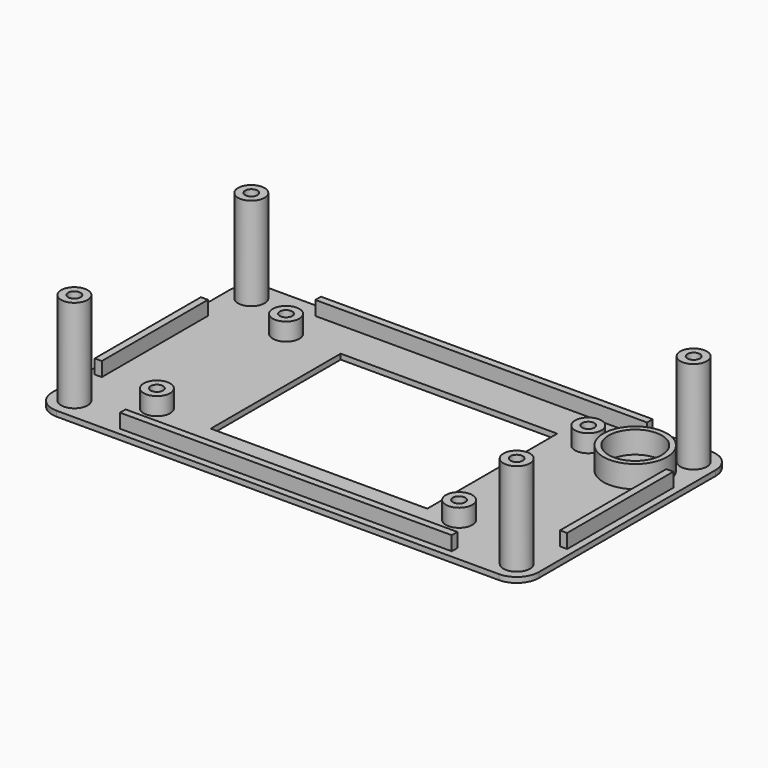
from build123d import *

# Parameters (mm, degrees)
F0_W      = 110
F0_H      = 60
F0_W_2    = 48.96
F0_H_2    = 36.72
F1_DEPTH  = 1.2
F2_R      = 7.2
F2_R_2    = 6
F3_DEPTH  = 5
F4_DEPTH  = 5
F5_R      = 1.5
F6_DEPTH  = 25
F7_R      = 5
F8_R      = 3
F8_R_2    = 1.4
F9_DEPTH  = 21
F10_R     = 3
F10_R_2   = 1.4
F11_DEPTH = 4
F12_W     = 75
F12_H     = 1.6
F12_W_2   = 1.6
F12_H_2   = 30
F13_DEPTH = 3.2


with BuildPart() as f1:
    # F0 (on Top) → F1 (new body)
    with BuildSketch(Plane.XY):
        with Locations((2.58, 0)):
            Rectangle(F0_W, F0_H)
        with Locations((2.58, 0)):
            Rectangle(F0_W_2, F0_H_2, mode=Mode.SUBTRACT)
    extrude(amount=F1_DEPTH)

    # F2 (on face) → F3 (join)
    with BuildSketch(Plane.XY.offset(1.2)):
        with Locations((46.58, 16)):
            Circle(F2_R)
        with Locations((46.58, 16)):
            Circle(F2_R_2, mode=Mode.SUBTRACT)
    extrude(amount=F3_DEPTH)

    # F2 (on face) → F4 (join)
    with BuildSketch(Plane.XY.offset(1.2)):
        with Locations((46.58, 16)):
            Circle(F2_R)
        with Locations((46.58, 16)):
            Circle(F2_R_2, mode=Mode.SUBTRACT)
    extrude(amount=F4_DEPTH)

    # F5 (on face) → F6 (cut)
    with BuildSketch(Plane.XY.offset(1.2)):
        with Locations((46.58, 16)):
            Circle(F5_R)
    extrude(amount=-F6_DEPTH, mode=Mode.SUBTRACT)

    # F7
    f7_edges = [f1.edges().sort_by_distance(p)[0] for p in [
        (57.58, 30, 0.6),
        (-52.42, 30, 0.6),
        (-52.42, -30, 0.6),
        (57.58, -30, 0.6),
    ]]
    fillet(f7_edges, radius=F7_R)

    # F8 (on face) → F9 (join)
    with BuildSketch(Plane.XY.offset(1.2)):
        with Locations((52.58, 25)):
            Circle(F8_R)
        with Locations((52.58, 25)):
            Circle(F8_R_2, mode=Mode.SUBTRACT)
        with Locations((52.58, -25)):
            Circle(F8_R)
        with Locations((52.58, -25)):
            Circle(F8_R_2, mode=Mode.SUBTRACT)
        with Locations((-47.42, -25)):
            Circle(F8_R)
        with Locations((-47.42, -25)):
            Circle(F8_R_2, mode=Mode.SUBTRACT)
        with Locations((-47.42, 25)):
            Circle(F8_R)
        with Locations((-47.42, 25)):
            Circle(F8_R_2, mode=Mode.SUBTRACT)
    extrude(amount=F9_DEPTH)

    # F10 (on face) → F11 (join)
    with BuildSketch(Plane.XY.offset(1.2)):
        with Locations((34.16, -18.25)):
            Circle(F10_R)
        with Locations((34.16, -18.25)):
            Circle(F10_R_2, mode=Mode.SUBTRACT)
        with Locations((-34.16, -18.25)):
            Circle(F10_R)
        with Locations((-34.16, -18.25)):
            Circle(F10_R_2, mode=Mode.SUBTRACT)
        with Locations((34.16, 18.25)):
            Circle(F10_R)
        with Locations((34.16, 18.25)):
            Circle(F10_R_2, mode=Mode.SUBTRACT)
        with Locations((-34.16, 18.25)):
            Circle(F10_R)
        with Locations((-34.16, 18.25)):
            Circle(F10_R_2, mode=Mode.SUBTRACT)
    extrude(amount=F11_DEPTH)

    # F12 (on face) → F13 (join)
    with BuildSketch(Plane.XY.offset(1.2)):
        with Locations((3.115936, -27.6)):
            Rectangle(F12_W, F12_H)
        with Locations((3.115936, 27.6)):
            Rectangle(F12_W, F12_H)
        with Locations((-50.02, 0)):
            Rectangle(F12_W_2, F12_H_2)
        with Locations((55.18, 0)):
            Rectangle(F12_W_2, F12_H_2)
    extrude(amount=F13_DEPTH)


solid = f1.part
